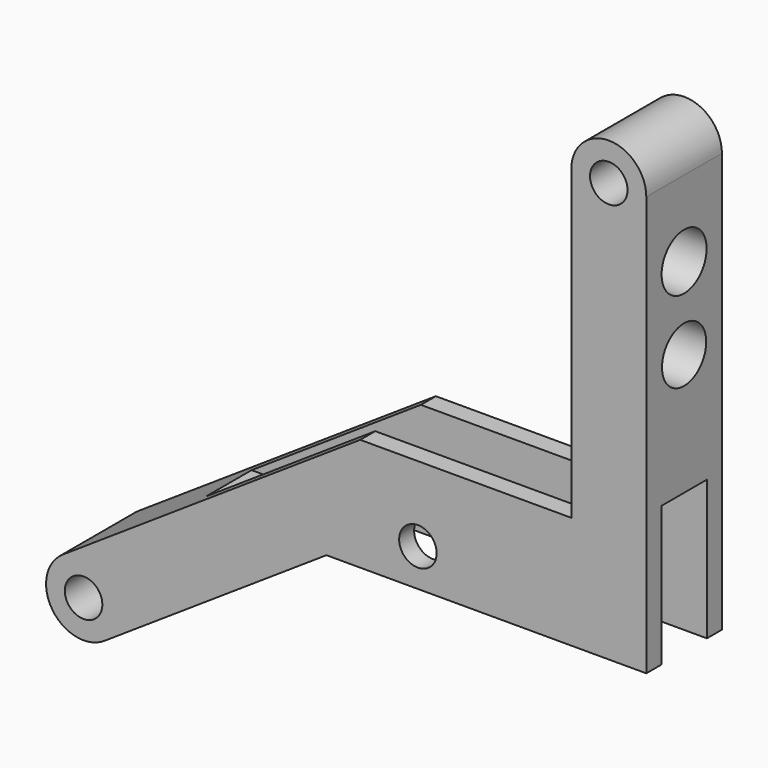
from build123d import *

# Parameters (mm, degrees)
F0_R     = 3.175
F1_DEPTH = 16.002
F2_R     = 4.7625
F2_R_2   = 4.676728
F2_W     = 9.652
F2_H     = 23.655266
F3_DEPTH = 119.888


with BuildPart() as f1:
    # F0 (on Front) → F1 (new body)
    with BuildSketch(Plane.XZ):
        with BuildLine():
            Line((54.771584, -19.430131), (54.771584, 51.5637))
            ThreePointArc((54.771584, 51.5637), (48.421584, 57.9137), (42.071584, 51.5637))
            Line((42.071584, 51.5637), (42.071584, -0.380131))
            Line((42.071584, -0.380131), (6.350398, -0.380131))
            Line((6.350398, -0.380131), (-43.990497, -33.847863))
            ThreePointArc((-43.990497, -33.847863), (-45.762924, -42.651471), (-36.959317, -44.423898))
            Line((-36.959317, -44.423898), (0.635361, -19.430131))
            Line((0.635361, -19.430131), (54.771584, -19.430131))
        make_face()
        with Locations((-40.474907, -39.135881)):
            Circle(F0_R, mode=Mode.SUBTRACT)
        with Locations((16.108539, -13.080131)):
            Circle(F0_R, mode=Mode.SUBTRACT)
        with Locations((48.421584, 51.5637)):
            Circle(F0_R, mode=Mode.SUBTRACT)
    extrude(amount=F1_DEPTH)

    # F2 (on face) → F3 (cut)
    with BuildSketch(Plane.YZ.offset(54.771584)):
        with Locations((-8.001, 38.679124)):
            Circle(F2_R)
        with Locations((-8.001, 24.817611)):
            Circle(F2_R_2)
        with Locations((-8.001, -7.602498)):
            Rectangle(F2_W, F2_H)
    extrude(amount=-F3_DEPTH, mode=Mode.SUBTRACT)


solid = f1.part
